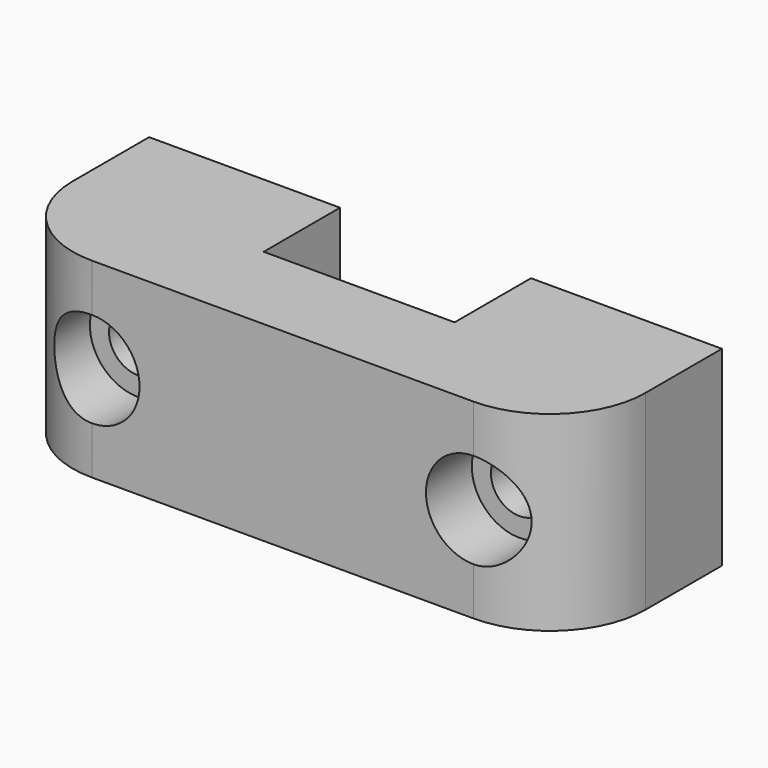
from build123d import *

# Parameters (mm, degrees)
F0_W     = 30
F0_H     = 10
F1_DEPTH = 10
F2_W     = 5
F2_H     = 5
F3_DEPTH = 25
F4_R     = 5
F5_R     = 1.5
F6_DEPTH = 25
F7_R     = 2.5
F8_DEPTH = 3


with BuildPart() as f1:
    # F0 (on Front) → F1 (new body)
    with BuildSketch(Plane.XZ):
        with Locations((-14.225836, 5)):
            Rectangle(F0_W, F0_H)
    extrude(amount=F1_DEPTH)

    # F2 (on face) → F3 (cut)
    with BuildSketch(Plane.XY.offset(10)):
        with Locations((-11.725836, -2.5)):
            Rectangle(F2_W, F2_H)
        with Locations((-16.725836, -2.5)):
            Rectangle(F2_W, F2_H)
    extrude(amount=-F3_DEPTH, mode=Mode.SUBTRACT)

    # F4
    f4_edges = [f1.edges().sort_by_distance(p)[0] for p in [
        (-29.225836, -10, 5),
        (0.774164, -10, 5),
    ]]
    fillet(f4_edges, radius=F4_R)

    # F5 (on face) → F6 (cut)
    with BuildSketch(Plane.XZ.offset(10)):
        with Locations((-24.225836, 5)):
            Circle(F5_R)
        with Locations((-4.225836, 5)):
            Circle(F5_R)
    extrude(amount=-F6_DEPTH, mode=Mode.SUBTRACT)

    # F7 (on face) → F8 (cut)
    with BuildSketch(Plane.XZ.offset(10)):
        with Locations((-24.225836, 5)):
            Circle(F7_R)
        with Locations((-4.225836, 5)):
            Circle(F7_R)
    extrude(amount=-F8_DEPTH, mode=Mode.SUBTRACT)


solid = f1.part
